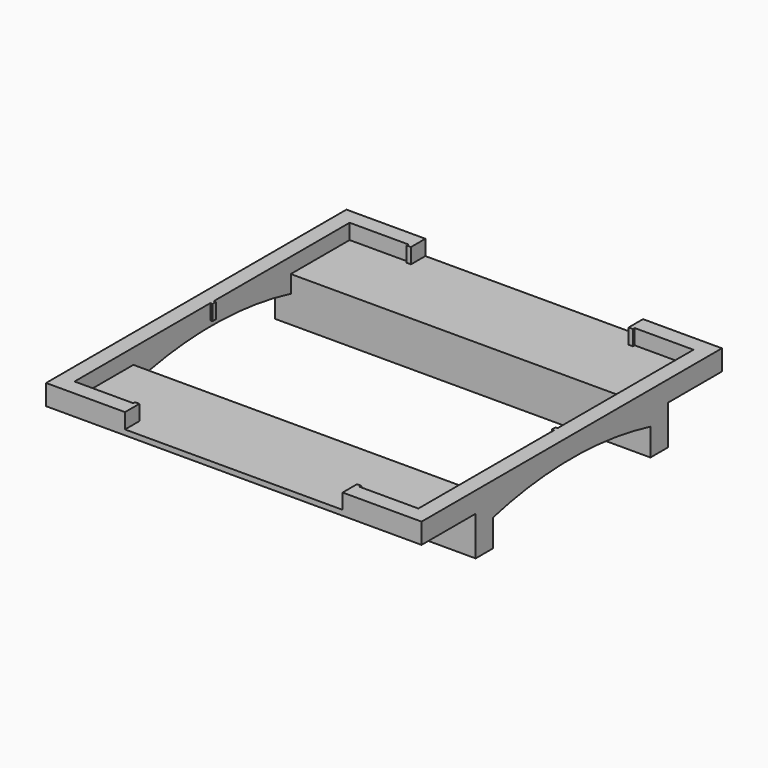
from build123d import *

# Parameters (mm, degrees)
F1_DEPTH      = 54.7751
F1_DEPTH_BACK = 54.7751
F3_DEPTH      = 54.7761
F3_DEPTH_BACK = 54.7761
F4_W          = 109.5502
F4_H          = 5.9763903179
F5_DEPTH      = 54.7751
F5_DEPTH_BACK = 54.7751
F7_DEPTH      = 4.4523903179
F8_W          = 57.404
F8_H          = 17.4625
F9_DEPTH      = 50.165
F9_DEPTH_BACK = 50.165
F10_W         = 1.27
F10_H         = 0.635
F10_W_2       = 0.635
F10_H_2       = 1.27
F11_DEPTH     = 4.4523903179


with BuildPart() as f1:
    # F0 (on Right) → F1 (new body, two sides)
    with BuildSketch(Plane.YZ) as f1_sk:
        Polygon((35.052, 9.525), (-35.052, 9.525), (-35.052, -7.9375), (-28.702, -7.9375), (-28.702, 0), (28.702, 0), (28.702, -7.9375), (35.052, -7.9375), align=None)
    extrude(amount=F1_DEPTH)
    extrude(f1_sk.sketch, amount=-F1_DEPTH_BACK)

    # F2 (on Right) → F3 (cut, two sides)
    with BuildSketch(Plane.YZ) as f3_sk:
        with BuildLine():
            ThreePointArc((28.702, 0), (0, 3.5486096821), (-28.702, 0))
            Line((-28.702, 0), (28.702, 0))
        make_face()
    extrude(amount=F3_DEPTH, mode=Mode.SUBTRACT)
    extrude(f3_sk.sketch, amount=-F3_DEPTH_BACK, mode=Mode.SUBTRACT)

    # F4 (on Right) → F5 (join, two sides)
    with BuildSketch(Plane.YZ) as f5_sk:
        with Locations((0, 6.536804841)):
            Rectangle(F4_W, F4_H)
    extrude(amount=F5_DEPTH)
    extrude(f5_sk.sketch, amount=-F5_DEPTH_BACK)

    # F6 (on face) → F7 (cut, through all)
    with BuildSketch(Plane.XY.offset(9.525)):
        Polygon((50.165, -50.165), (50.165, 50.165), (31.75, 50.165), (31.75, 54.7751), (-31.75, 54.7751), (-31.75, 50.165), (-50.165, 50.165), (-50.165, -50.165), (-31.75, -50.165), (-31.75, -54.7751), (31.75, -54.7751), (31.75, -50.165), align=None)
    extrude(amount=-F7_DEPTH, mode=Mode.SUBTRACT)

    # F8 (on Right) → F9 (cut, two sides)
    with BuildSketch(Plane.YZ) as f9_sk:
        with Locations((0, 0.79375)):
            Rectangle(F8_W, F8_H)
    extrude(amount=F9_DEPTH, mode=Mode.SUBTRACT)
    extrude(f9_sk.sketch, amount=-F9_DEPTH_BACK, mode=Mode.SUBTRACT)

    # F10 (on face) → F11 (join, through all)
    with BuildSketch(Plane.XY.offset(5.0726096821)):
        with Locations((-32.385, 49.8475)):
            Rectangle(F10_W, F10_H)
        with Locations((32.385, 49.8475)):
            Rectangle(F10_W, F10_H)
        with Locations((-32.385, -49.8475)):
            Rectangle(F10_W, F10_H)
        with Locations((32.385, -49.8475)):
            Rectangle(F10_W, F10_H)
        with Locations((-49.8475, 0)):
            Rectangle(F10_W_2, F10_H_2)
        with Locations((49.8475, 0)):
            Rectangle(F10_W_2, F10_H_2)
    extrude(amount=F11_DEPTH)


solid = f1.part
